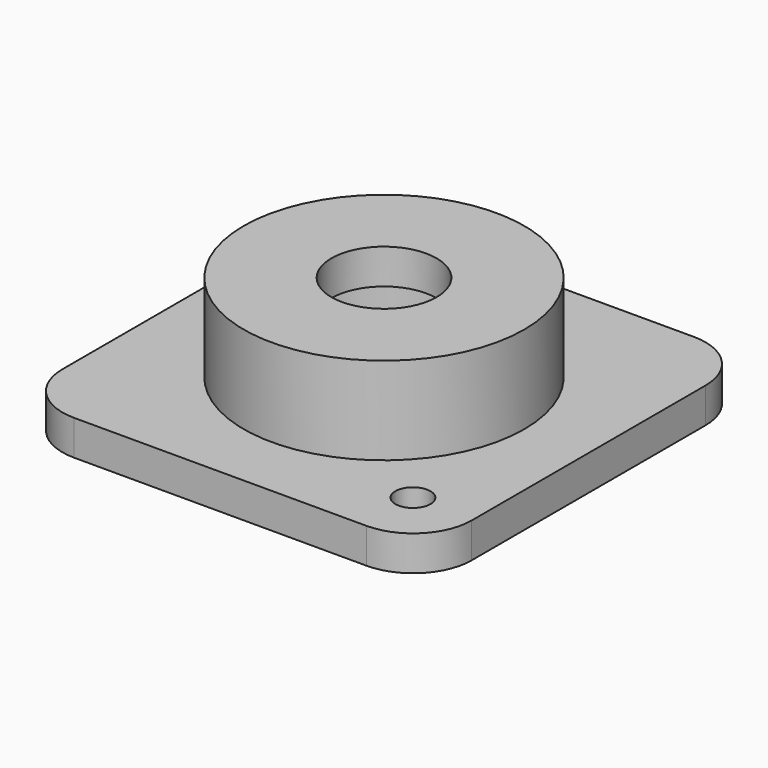
from build123d import *

# Parameters (mm, degrees)
SKETCH_W      = 35
SKETCH_H      = 35
SKETCH_R      = 7.75
SKETCH_R_2    = 1.5
PAD_DEPTH     = 3
SKETCH001_R   = 12
SKETCH001_R_2 = 7.75
PAD001_DEPTH  = 4.5
SKETCH002_R   = 12
SKETCH002_R_2 = 4.5
PAD002_DEPTH  = 3
FILLET_R      = 5


with BuildPart() as part:
    # Sketch → Pad (new body)
    with BuildSketch(Plane.XY):
        Rectangle(SKETCH_W, SKETCH_H)
        Circle(SKETCH_R, mode=Mode.SUBTRACT)
        with Locations((-12.375262, 12.375262)):
            Circle(SKETCH_R_2, mode=Mode.SUBTRACT)
        with Locations((12.373476, -12.373476)):
            Circle(SKETCH_R_2, mode=Mode.SUBTRACT)
    extrude(amount=PAD_DEPTH)

    # Sketch001 (on Face9 of Pad) → Pad001 (join)
    with BuildSketch(Plane.XY.offset(3)):
        Circle(SKETCH001_R)
        Circle(SKETCH001_R_2, mode=Mode.SUBTRACT)
    extrude(amount=PAD001_DEPTH)

    # Sketch002 (on Face10 of Pad001) → Pad002 (join)
    with BuildSketch(Plane.XY.offset(7.5)):
        Circle(SKETCH002_R)
        Circle(SKETCH002_R_2, mode=Mode.SUBTRACT)
    extrude(amount=PAD002_DEPTH)

    # Fillet
    fillet_edges = [part.edges().sort_by_distance(p)[0] for p in [
        (17.5, -17.5, 1.5),
        (17.5, 17.5, 1.5),
        (-17.5, -17.5, 1.5),
        (-17.5, 17.5, 1.5),
    ]]
    fillet(fillet_edges, radius=FILLET_R)


solid = part.part
